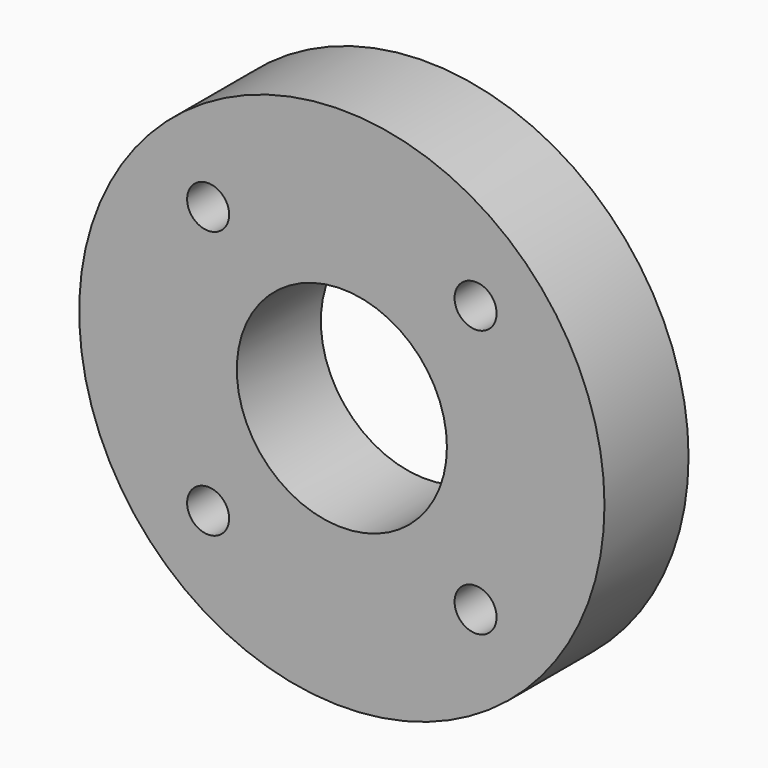
from build123d import *

# Parameters (mm, degrees)
F0_R     = 25
F0_R_2   = 10
F1_DEPTH = 10
F2_R     = 2
F3_DEPTH = 10.001


with BuildPart() as f1:
    # F0 (on Front) → F1 (new body)
    with BuildSketch(Plane.XZ):
        Circle(F0_R)
        Circle(F0_R_2, mode=Mode.SUBTRACT)
    extrude(amount=F1_DEPTH)

    # F2 (on face) → F3 (cut, through all)
    with BuildSketch(Plane.XZ.offset(10)):
        with Locations((-12.727922, 12.727922)):
            Circle(F2_R)
        with Locations((-12.727922, -12.727922)):
            Circle(F2_R)
        with Locations((12.727922, -12.727922)):
            Circle(F2_R)
        with Locations((12.727922, 12.727922)):
            Circle(F2_R)
    extrude(amount=-F3_DEPTH, mode=Mode.SUBTRACT)


solid = f1.part
